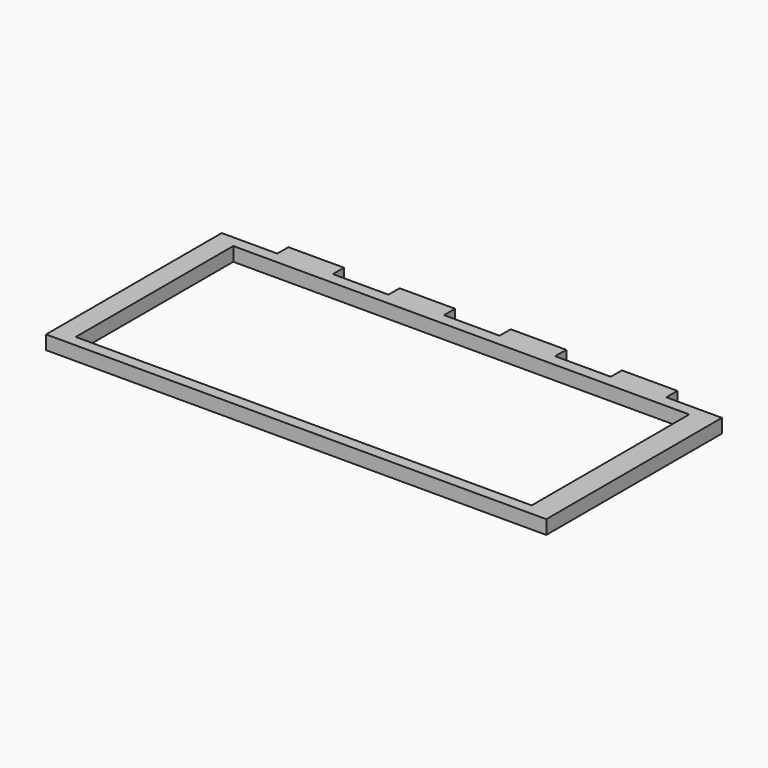
from build123d import *

# Parameters (mm, degrees)
F0_W     = 12.7
F0_H     = 3.175
F1_DEPTH = 3.175


with BuildPart() as f1:
    # F0 (on Top) → F1 (new body)
    with BuildSketch(Plane.XY):
        Polygon((-56.297761, 47.625), (-68.997761, 47.625), (-68.997761, 0), (-68.997761, -2.54), (-11.847761, -2.54), (45.302239, -2.54), (45.302239, 0), (45.302239, 47.625), (32.602239, 47.625), (19.902239, 47.625), (7.202239, 47.625), (-5.497761, 47.625), (-18.197761, 47.625), (-30.897761, 47.625), (-43.597761, 47.625), align=None)
        Polygon((39.936739, 0), (-11.847761, 0), (-64.253261, 0), (-64.253261, 45), (39.936739, 45), align=None, mode=Mode.SUBTRACT)
        with Locations((-49.947761, 49.2125)):
            Rectangle(F0_W, F0_H)
        with Locations((-24.547761, 49.2125)):
            Rectangle(F0_W, F0_H)
        with Locations((0.852239, 49.2125)):
            Rectangle(F0_W, F0_H)
        with Locations((26.252239, 49.2125)):
            Rectangle(F0_W, F0_H)
    extrude(amount=F1_DEPTH)


solid = f1.part
